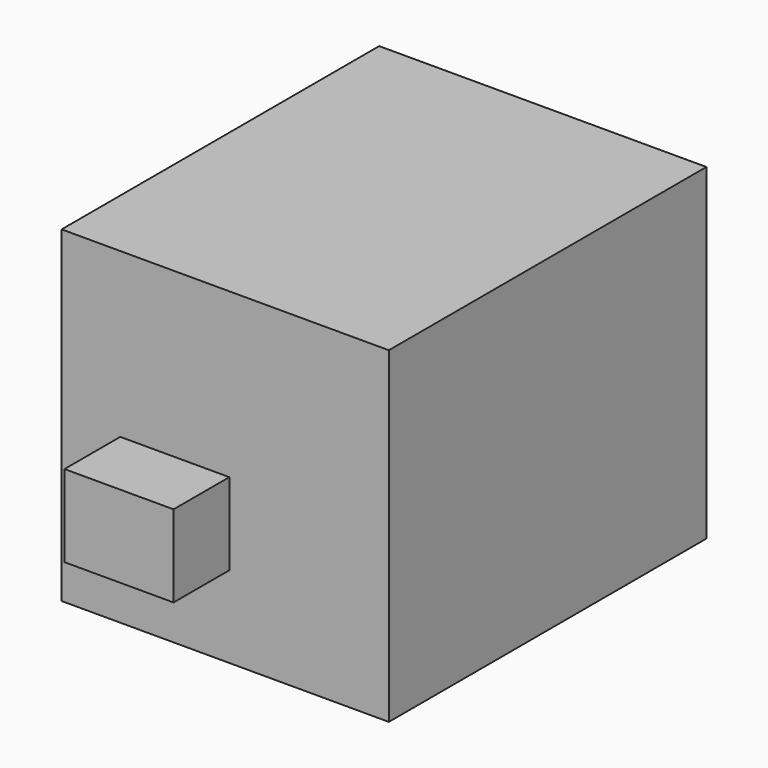
from build123d import *

# Parameters (mm, degrees)
F0_W       = 127
F0_H       = 127
F1_DEPTH   = 63.5
F2_W       = 42.3164
F2_H       = 31.8262
F3_DEPTH   = 25.4
F1_FACE1_W = 127
F1_FACE1_H = 127
F4_DEPTH   = 27.051
F5_W       = 42.3164
F5_H       = 31.8262
F6_DEPTH   = 57.404


with BuildPart() as f1:
    # F0 (on Front) → F1 (new body, symmetric)
    with BuildSketch(Plane.XZ):
        Rectangle(F0_W, F0_H)
    extrude(amount=F1_DEPTH, both=True)

    # F2 (on face) → F3 (cut)
    with BuildSketch(Plane.XZ.offset(63.5)):
        with Locations((-19.5812878566, -15.9131)):
            Rectangle(F2_W, F2_H)
    extrude(amount=F3_DEPTH, mode=Mode.SUBTRACT)

    # F2 (on face) + F1_face1 (on face) → F4 (join, symmetric)
    with BuildSketch(Plane.XZ.offset(63.5)):
        with Locations((-19.5812878566, -15.9131)):
            Rectangle(F2_W, F2_H)
    with BuildSketch(Plane(origin=(0, 63.5, 0), x_dir=(1, 0, 0), z_dir=(0, 1, 0))):
        Rectangle(F1_FACE1_W, F1_FACE1_H)
    extrude(amount=F4_DEPTH, both=True, dir=(0, -1, 0))

    # F5 (on face) → F6 (cut, symmetric)
    with BuildSketch(Plane(origin=(0, 90.551, 0), x_dir=(-1, 0, 0), z_dir=(0, 1, 0))):
        with Locations((19.5812878566, -15.9131)):
            Rectangle(F5_W, F5_H)
    extrude(amount=F6_DEPTH, both=True, mode=Mode.SUBTRACT)


solid = f1.part
